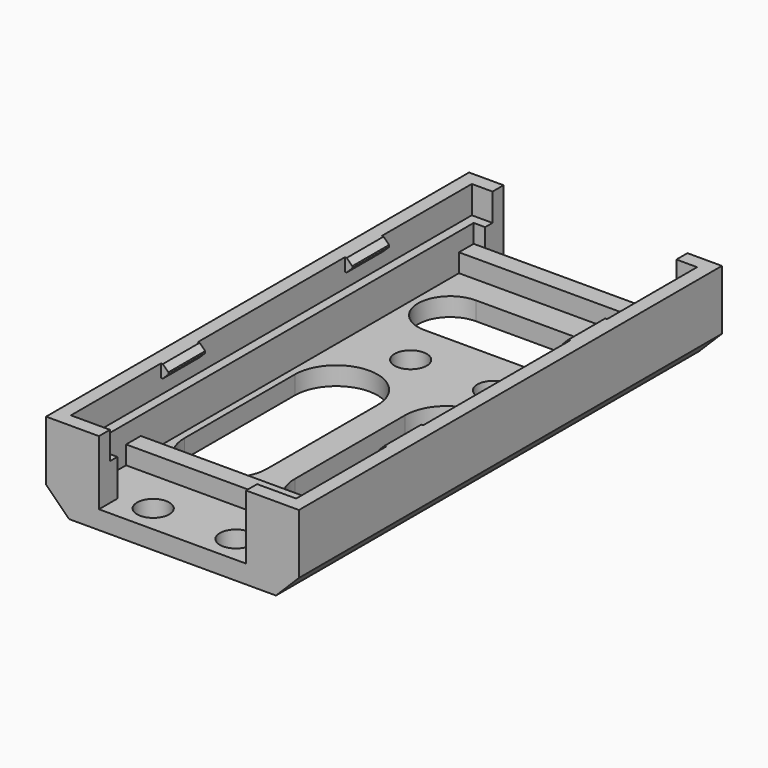
from build123d import *

# Parameters (mm, degrees)
SKETCH_W        = 27.5
SKETCH_H        = 57.5
SKETCH_R        = 1.75
PAD_DEPTH       = 9
POCKET_DEPTH    = 7
SKETCH002_W     = 24.5
SKETCH002_H     = 54.5
POCKET001_DEPTH = 3
SKETCH003_W     = 0.8
SKETCH003_H     = 5
PAD001_DEPTH    = 1.4
CHAMFER_SIZE    = 0.6
SKETCH004_W     = 20
SKETCH004_H     = 3
POCKET002_DEPTH = 9.001
SKETCH005_W     = 22.5
SKETCH005_H     = 2
PAD002_DEPTH    = 2
POCKET003_DEPTH = 2.001
CHAMFER001_SIZE = 2.5


with BuildPart() as part:
    # Sketch → Pad (new body)
    with BuildSketch(Plane.XY):
        Rectangle(SKETCH_W, SKETCH_H)
        with Locations((-4.5, 9.25)):
            Circle(SKETCH_R, mode=Mode.SUBTRACT)
        with Locations((-4.5, -25.75)):
            Circle(SKETCH_R, mode=Mode.SUBTRACT)
        with Locations((4.5, 9.25)):
            Circle(SKETCH_R, mode=Mode.SUBTRACT)
        with Locations((4.5, -25.75)):
            Circle(SKETCH_R, mode=Mode.SUBTRACT)
    extrude(amount=PAD_DEPTH)

    # Sketch001 (on Face10 of Pad) → Pocket (cut)
    with BuildSketch(Plane.XY.offset(9)):
        Polygon((-11.25, 26.25), (11.25, 26.25), (11.25, -26.25), (8, -26.25), (8, -29.25), (-8, -29.25), (-8, -26.25), (-11.25, -26.25), align=None)
    extrude(amount=-POCKET_DEPTH, mode=Mode.SUBTRACT)

    # Sketch002 (on Face5 of Pocket) → Pocket001 (cut)
    with BuildSketch(Plane.XY.offset(9)):
        Rectangle(SKETCH002_W, SKETCH002_H)
    extrude(amount=-POCKET001_DEPTH, mode=Mode.SUBTRACT)

    # Sketch003 (on Face5 of Pocket001) → Pad001 (join)
    with BuildSketch(Plane.XY.offset(9)):
        with Locations((-11.85, 12.5)):
            Rectangle(SKETCH003_W, SKETCH003_H)
        with Locations((-11.85, -12.5)):
            Rectangle(SKETCH003_W, SKETCH003_H)
        with Locations((11.85, -12.5)):
            Rectangle(SKETCH003_W, SKETCH003_H)
        with Locations((11.85, 12.5)):
            Rectangle(SKETCH003_W, SKETCH003_H)
    extrude(amount=-PAD001_DEPTH)

    # Chamfer
    chamfer_edges = [part.edges().sort_by_distance(p)[0] for p in [
        (-11.45, -12.5, 9),
        (-11.45, -12.5, 7.6),
        (-11.45, 12.5, 9),
        (-11.45, 12.5, 7.6),
        (11.45, 12.5, 9),
        (11.45, 12.5, 7.6),
        (11.45, -12.5, 9),
        (11.45, -12.5, 7.6),
    ]]
    chamfer(chamfer_edges, length=CHAMFER_SIZE)

    # Sketch004 (on Face4 of Chamfer) → Pocket002 (cut, through all)
    with BuildSketch(Plane.XY.offset(9)):
        with Locations((0, 27.75)):
            Rectangle(SKETCH004_W, SKETCH004_H)
    extrude(amount=-POCKET002_DEPTH, mode=Mode.SUBTRACT)

    # Sketch005 (on Face22 of Pocket002) → Pad002 (join)
    with BuildSketch(Plane.XY.offset(2)):
        with Locations((0, 25.25)):
            Rectangle(SKETCH005_W, SKETCH005_H)
        with Locations((0, -20)):
            Rectangle(SKETCH005_W, SKETCH005_H)
    extrude(amount=PAD002_DEPTH)

    # Sketch006 (on Face52 of Pad002) → Pocket003 (cut, through all)
    with BuildSketch(Plane.XY.offset(2)):
        with BuildLine():
            ThreePointArc((-7, 21.25), (-10.5, 17.75), (-7, 14.25))
            Line((-7, 14.25), (7, 14.25))
            ThreePointArc((7, 14.25), (10.5, 17.75), (7, 21.25))
            Line((-7, 21.25), (7, 21.25))
        make_face()
        with BuildLine():
            ThreePointArc((-1.5, 1), (-6, 5.5), (-10.5, 1))
            Line((-10.5, 1), (-10.5, -14))
            ThreePointArc((-10.5, -14), (-6, -18.5), (-1.5, -14))
            Line((-1.5, 1), (-1.5, -14))
        make_face()
        with BuildLine():
            ThreePointArc((10.5, 1), (6, 5.5), (1.5, 1))
            Line((1.5, 1), (1.5, -14))
            ThreePointArc((1.5, -14), (6, -18.5), (10.5, -14))
            Line((10.5, 1), (10.5, -14))
        make_face()
    extrude(amount=-POCKET003_DEPTH, mode=Mode.SUBTRACT)

    # Chamfer001
    chamfer001_edges = [part.edges().sort_by_distance(p)[0] for p in [
        (-13.75, 0, 0),
        (13.75, 0, 0),
    ]]
    chamfer(chamfer001_edges, length=CHAMFER001_SIZE)


solid = part.part
